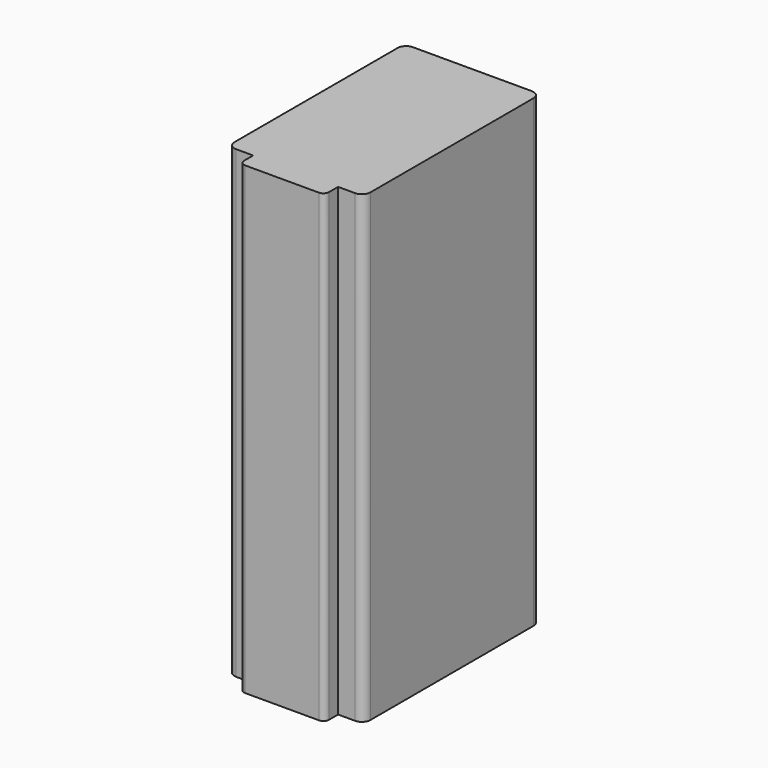
from build123d import *

# Parameters (mm, degrees)
F1_DEPTH = 82


with BuildPart() as f1:
    # F0 (on Top) → F1 (new body)
    with BuildSketch(Plane.XY):
        with BuildLine():
            Line((10.5, 19.5), (-10.5, 19.5))
            ThreePointArc((-10.5, 19.5), (-11.56066, 19.06066), (-12, 18))
            Line((-12, 18), (-12, -18))
            ThreePointArc((-12, -18), (-11.56066, -19.06066), (-10.5, -19.5))
            Line((-10.5, -19.5), (-7.5, -19.5))
            Line((-7.5, -19.5), (-7.5, -21.5))
            ThreePointArc((-7.5, -21.5), (-7.207107, -22.207107), (-6.5, -22.5))
            Line((-6.5, -22.5), (6.5, -22.5))
            ThreePointArc((6.5, -22.5), (7.207107, -22.207107), (7.5, -21.5))
            Line((7.5, -21.5), (7.5, -19.5))
            Line((7.5, -19.5), (10.5, -19.5))
            ThreePointArc((10.5, -19.5), (11.56066, -19.06066), (12, -18))
            Line((12, -18), (12, 18))
            ThreePointArc((12, 18), (11.56066, 19.06066), (10.5, 19.5))
        make_face()
    extrude(amount=F1_DEPTH)


solid = f1.part
